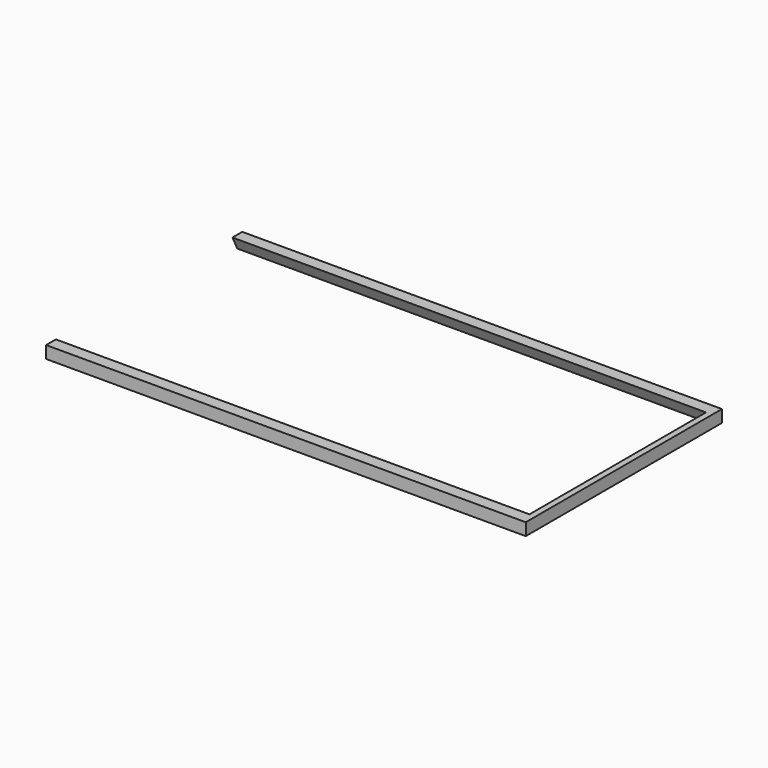
from build123d import *

# Parameters (mm, degrees)
F0_W     = 78.25
F0_H     = 40
F1_DEPTH = 2
F3_DEPTH = 77.25


with BuildPart() as f1:
    # F0 (on Top) → F1 (new body)
    with BuildSketch(Plane.XY):
        Rectangle(F0_W, F0_H)
    extrude(amount=F1_DEPTH)

    # F2 (on face) → F3 (cut)
    with BuildSketch(Plane(origin=(-39.125, 0, 0), x_dir=(0, -1, 0), z_dir=(-1, 0, 0))):
        Polygon((18, 2), (-18, 2), (-19, 0), (19, 0), align=None)
    extrude(amount=-F3_DEPTH, mode=Mode.SUBTRACT)


solid = f1.part
